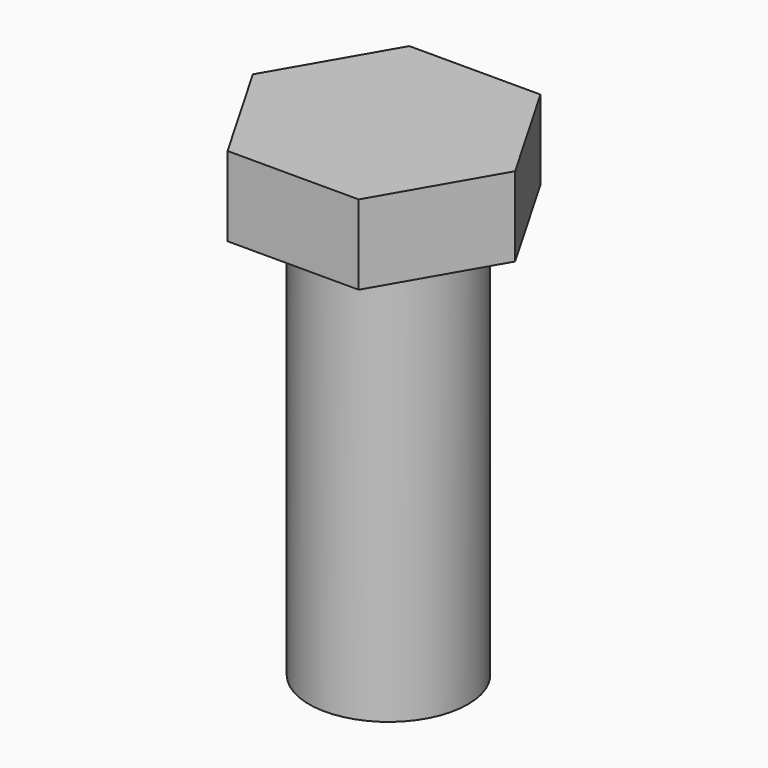
from build123d import *

# Parameters (mm, degrees)
F2_DEPTH = 5.55625
F1_R     = 5.55625
F3_DEPTH = 28.575


with BuildPart() as f2:
    # F0 (on Top) → F2 (new body)
    with BuildSketch(Plane.XY):
        Polygon((4.582718, 7.9375), (-4.582718, 7.9375), (-9.165436, 0), (-4.582718, -7.9375), (4.582718, -7.9375), (9.165436, 0), align=None)
    extrude(amount=F2_DEPTH)

    # F1 (on Top) → F3 (join)
    with BuildSketch(Plane.XY):
        with Locations((0, 0.394696)):
            Circle(F1_R)
    extrude(amount=-F3_DEPTH)


solid = f2.part
